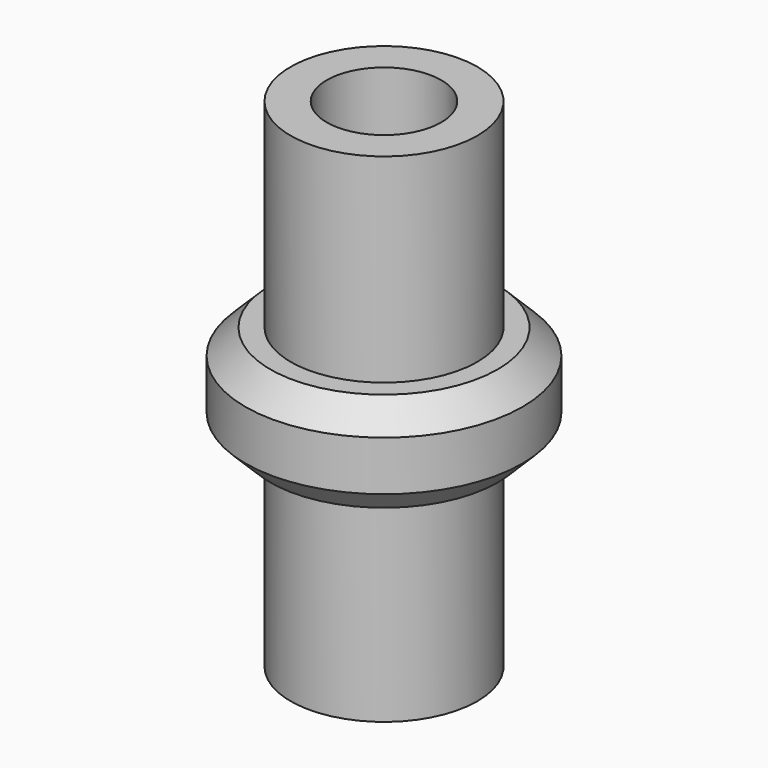
from build123d import *

# Parameters (mm, degrees)
F0_R     = 1.875
F1_DEPTH = 10
F2_R     = 1.15
F3_DEPTH = 25
F6_SIZE  = 0.5


with BuildPart() as f1:
    # F0 (on Top) → F1 (new body)
    with BuildSketch(Plane.XY):
        Circle(F0_R)
    extrude(amount=F1_DEPTH)

    # F2 (on face) → F3 (cut)
    with BuildSketch(Plane.XY.offset(10)):
        Circle(F2_R)
    extrude(amount=-F3_DEPTH, mode=Mode.SUBTRACT)

    # F4 (on Front) → F5 (revolve)
    with BuildSketch(Plane.XZ):
        Polygon((1.738653, 6), (1.783498, 4), (2.783498, 4), (2.783498, 6), align=None)
    revolve(axis=Axis((0, 0, 3.566666), (0, 0, 1)))

    # F6
    f6_edges = [f1.edges().sort_by_distance(p)[0] for p in [
        (-2.783498, 0, 4),
        (-2.783498, 0, 6),
    ]]
    chamfer(f6_edges, length=F6_SIZE)


solid = f1.part
